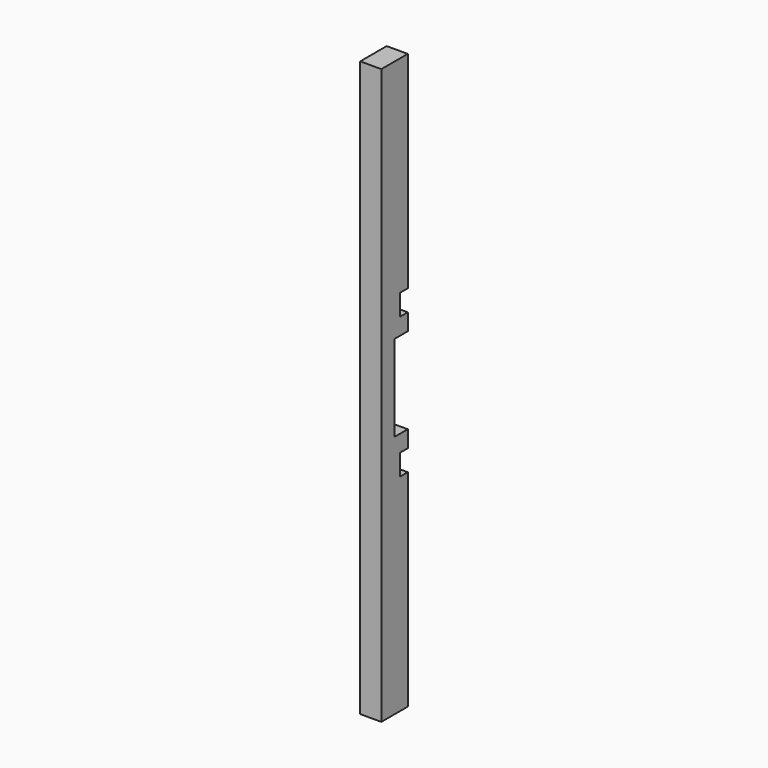
from build123d import *

# Parameters (mm, degrees)
F0_W     = 44
F0_H     = 69
F1_DEPTH = 1200
F2_W     = 20
F2_H     = 44
F3_DEPTH = 44.001


with BuildPart() as f1:
    # F0 (on Top) → F1 (new body)
    with BuildSketch(Plane.XY):
        Rectangle(F0_W, F0_H)
    extrude(amount=F1_DEPTH)

    # F2 (on face) → F3 (cut, through all)
    with BuildSketch(Plane.YZ.offset(22)):
        Polygon((-0.5, 510), (34.5, 510), (34.5, 600), (34.5, 690), (-0.5, 690), (-0.5, 600), align=None)
        with Locations((24.5, 453)):
            Rectangle(F2_W, F2_H)
        with Locations((24.5, 747)):
            Rectangle(F2_W, F2_H)
    extrude(amount=-F3_DEPTH, mode=Mode.SUBTRACT)


solid = f1.part
